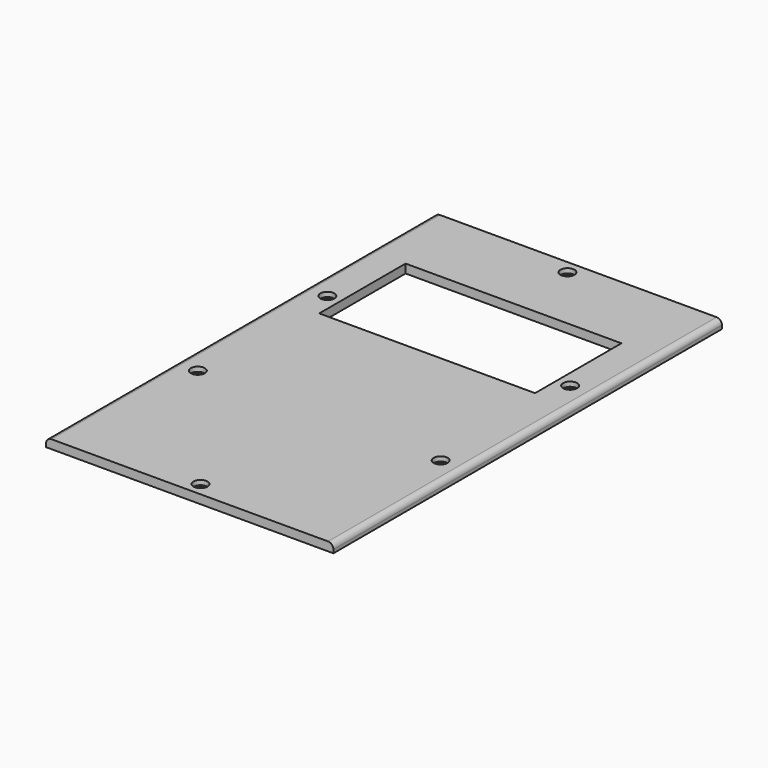
from build123d import *

# Parameters (mm, degrees)
SKETCH_W        = 213
SKETCH_H        = 360
PAD_DEPTH       = 6.5
SKETCH001_R     = 5.2
POCKET_DEPTH    = 3.4
SKETCH002_R     = 3.2
POCKET001_DEPTH = 3.1
FILLET_R        = 4
SKETCH003_W     = 160
SKETCH003_H     = 80
POCKET002_DEPTH = 6.5


with BuildPart() as part:
    # Sketch → Pad (new body)
    with BuildSketch(Plane.XY):
        with Locations((106.5, 180)):
            Rectangle(SKETCH_W, SKETCH_H)
    extrude(amount=PAD_DEPTH)

    # Sketch001 (on Face6 of Pad) → Pocket (cut)
    with BuildSketch(Plane.XY.offset(6.5)):
        with Locations((106.5, 350)):
            Circle(SKETCH001_R)
        with Locations((16.5, 240)):
            Circle(SKETCH001_R)
        with Locations((16.5, 120)):
            Circle(SKETCH001_R)
        with Locations((196.5, 240)):
            Circle(SKETCH001_R)
        with Locations((196.5, 120)):
            Circle(SKETCH001_R)
        with Locations((106.5, 10)):
            Circle(SKETCH001_R)
    extrude(amount=-POCKET_DEPTH, mode=Mode.SUBTRACT)

    # Sketch002 (on Face17 of Pocket) → Pocket001 (cut)
    with BuildSketch(Plane.XY.offset(3.1)):
        with Locations((106.5, 350)):
            Circle(SKETCH002_R)
        with Locations((16.5, 240)):
            Circle(SKETCH002_R)
        with Locations((16.5, 120)):
            Circle(SKETCH002_R)
        with Locations((196.5, 240)):
            Circle(SKETCH002_R)
        with Locations((196.5, 120)):
            Circle(SKETCH002_R)
        with Locations((106.5, 10)):
            Circle(SKETCH002_R)
    extrude(amount=-POCKET001_DEPTH, mode=Mode.SUBTRACT)

    # Fillet
    fillet_edges = [part.edges().sort_by_distance(p)[0] for p in [
        (213, 180, 6.5),
        (0, 180, 6.5),
    ]]
    fillet(fillet_edges, radius=FILLET_R)

    # Sketch003 (on Face5 of Fillet) → Pocket002 (cut)
    with BuildSketch(Plane.XY.offset(6.5)):
        with Locations((106.5, 260)):
            Rectangle(SKETCH003_W, SKETCH003_H)
    extrude(amount=-POCKET002_DEPTH, mode=Mode.SUBTRACT)


solid = part.part
